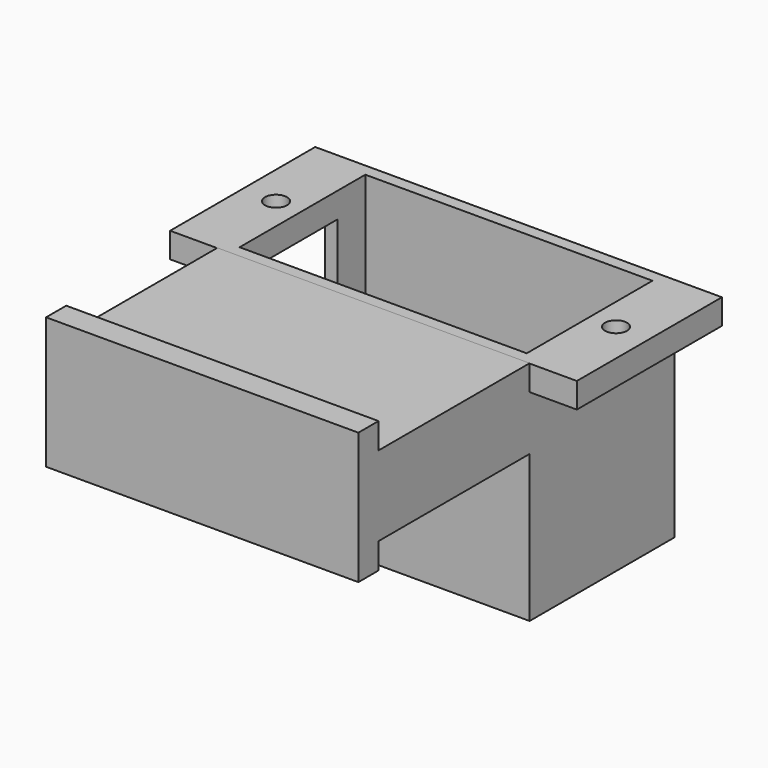
from build123d import *

# Parameters (mm, degrees)
F0_W          = 24.8
F0_H          = 18
F0_W_2        = 22.8
F0_H_2        = 16
F1_DEPTH      = 6.2
F1_DEPTH_BACK = 6.2
F2_W          = 24.8
F2_H          = 18
F3_DEPTH      = 1
F5_W          = 22.8
F5_H          = 12.48
F6_DEPTH      = 15.8
F7_W          = 9.005438
F7_H          = 7
F8_DEPTH      = 17
F10_W         = 32.3
F10_H         = 14.4
F10_W_2       = 22.8
F10_H_2       = 12.48
F11_DEPTH     = 2
F12_R         = 0.875
F13_DEPTH     = 25
F15_DEPTH     = 24.8


with BuildPart() as f1:
    # F0 (on Front) → F1 (new body, two sides)
    with BuildSketch(Plane.XZ) as f1_sk:
        with Locations((-17.722324, 14.856741)):
            Rectangle(F0_W, F0_H)
        with Locations((-17.722324, 14.856741)):
            Rectangle(F0_W_2, F0_H_2, mode=Mode.SUBTRACT)
    extrude(amount=F1_DEPTH)
    extrude(f1_sk.sketch, amount=-F1_DEPTH_BACK)

    # F2 (on face) → F3 (join)
    with BuildSketch(Plane.XZ.offset(6.2)):
        with Locations((-17.722324, 14.856741)):
            Rectangle(F2_W, F2_H)
    extrude(amount=F3_DEPTH)

    # F4: F1 across plane


with BuildPart() as f1_1:
    add(f1.part)
    add(f1.part.mirror(Plane.XZ))

    # F5 (on face) → F6 (cut)
    with BuildSketch(Plane.XY.offset(23.856741)):
        with Locations((-17.722324, 0)):
            Rectangle(F5_W, F5_H)
    extrude(amount=-F6_DEPTH, mode=Mode.SUBTRACT)

    # F7 (on face) → F8 (cut, through all)
    with BuildSketch(Plane.XY.offset(23.856741)):
        with Locations((-31.029159, 0)):
            Rectangle(F7_W, F7_H)
    extrude(amount=-F8_DEPTH, mode=Mode.SUBTRACT)

    # F10 (on face) → F11 (join)
    with BuildSketch(Plane.XY.offset(23.856741)):
        with Locations((-17.722324, 0)):
            Rectangle(F10_W, F10_H)
        with Locations((-17.722324, 0)):
            Rectangle(F10_W_2, F10_H_2, mode=Mode.SUBTRACT)
    extrude(amount=-F11_DEPTH)

    # F12 (on face) → F13 (cut)
    with BuildSketch(Plane.XY.offset(23.856741)):
        with Locations((-31.222324, 0)):
            Circle(F12_R)
        with Locations((-4.222324, 0)):
            Circle(F12_R)
    extrude(amount=-F13_DEPTH, mode=Mode.SUBTRACT)

    # F14 (on face) → F15 (join, through all)
    with BuildSketch(Plane.YZ.offset(-5.322324)):
        Polygon((-7.2, 21.856741), (-7.2, 23.879181), (-22.2, 23.879181), (-22.2, 25.934181), (-24.2, 25.934181), (-24.2, 15.484181), (-22.2, 15.484181), (-22.2, 17.539181), (-7.2, 17.539181), align=None)
    extrude(amount=-F15_DEPTH)


solid = f1_1.part
